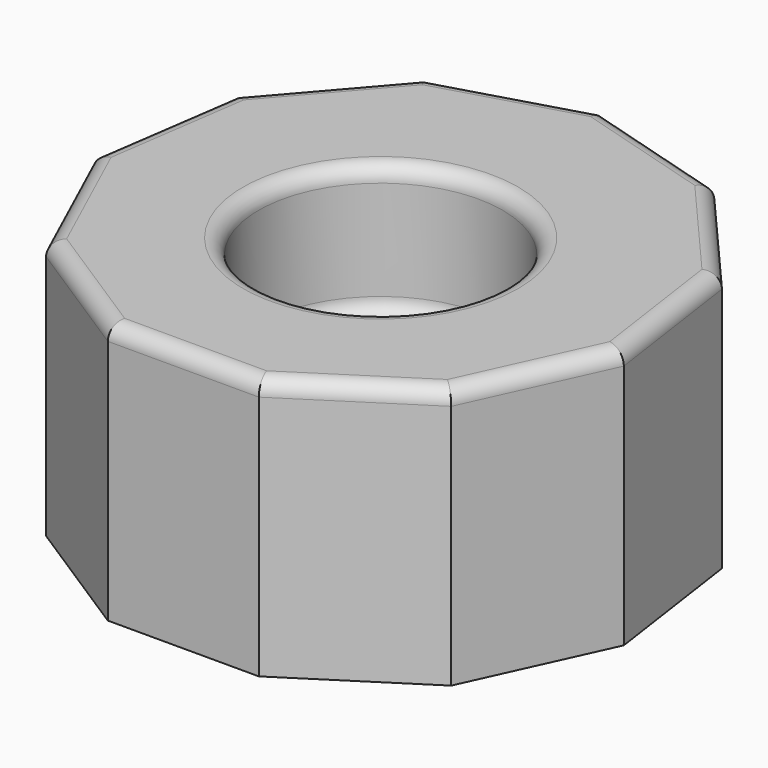
from build123d import *

# Parameters (mm, degrees)
F1_DEPTH = 50.8
F2_R     = 23.7463385983
F3_DEPTH = 25.4
F4_R     = 3


with BuildPart() as f1:
    # F0 (on Top) → F1 (new body)
    with BuildSketch(Plane.XY):
        Polygon((-14.6813246469, -50), (14.6813246469, -50), (39.3827570986, -34.1253532831), (51.5804424368, -7.4161480171), (47.4017017513, 21.6476318444), (28.1732556841, 43.8384415501), (0, 52.1108558113), (-28.1732556841, 43.8384415501), (-47.4017017513, 21.6476318444), (-51.5804424368, -7.4161480171), (-39.3827570986, -34.1253532831), align=None)
    extrude(amount=F1_DEPTH)

    # F2 (on face) → F3 (cut)
    with BuildSketch(Plane.XY.offset(50.8)):
        with Locations((0, -2.0428874996)):
            Circle(F2_R)
    extrude(amount=-F3_DEPTH, mode=Mode.SUBTRACT)

    # F4
    f4_edges = [f1.edges().sort_by_distance(p)[0] for p in [
        (-23.746339, -2.042887, 25.4),
        (-23.746339, -2.042887, 50.8),
        (0, -50, 50.8),
        (-27.032041, -42.062677, 50.8),
        (27.032041, -42.062677, 50.8),
        (-45.4816, -20.770751, 50.8),
        (45.4816, -20.770751, 50.8),
        (-49.491072, 7.115742, 50.8),
        (49.491072, 7.115742, 50.8),
        (-37.787479, 32.743037, 50.8),
        (37.787479, 32.743037, 50.8),
        (-14.086628, 47.974649, 50.8),
        (14.086628, 47.974649, 50.8),
    ]]
    fillet(f4_edges, radius=F4_R)


solid = f1.part
